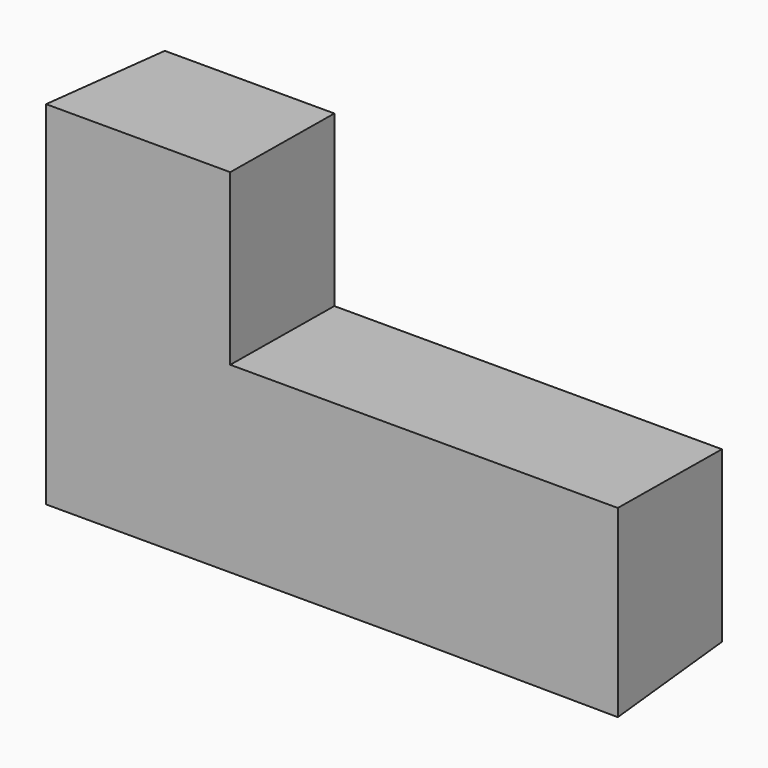
from build123d import *

# Parameters (mm, degrees)
F1_DEPTH = 36.5125
F1_TAPER = -3


with BuildPart() as f1:
    # F0 (on Front) → F1 (new body)
    with BuildSketch(Plane.XZ):
        Polygon((-61.0300807763, 29.6859250018), (-105.4800807763, 29.6859250018), (-105.4800807763, -58.8637311338), (-10.228872683, -58.8637311338), (40.5699192237, -59.2140749982), (40.5699192237, -14.7640749982), (-61.0300807763, -14.7640749982), align=None)
    extrude(amount=F1_DEPTH, taper=F1_TAPER)


solid = f1.part
